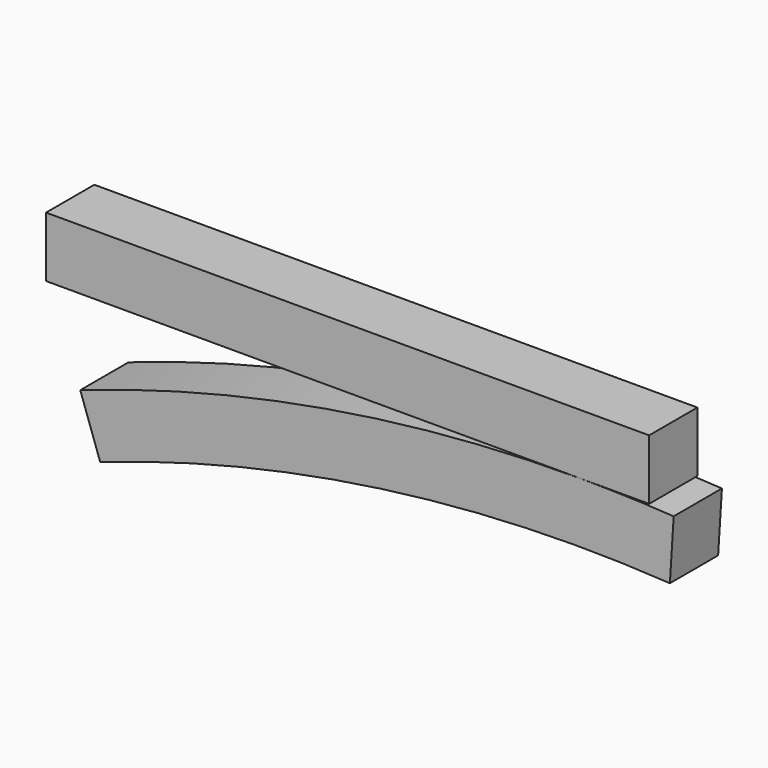
from build123d import *

# Parameters (mm, degrees)
F1_DEPTH = 10
F2_DEPTH = 10


with BuildPart() as f1:
    # F0 (on Front) → F1 (new body)
    with BuildSketch(Plane.XZ):
        Polygon((0, 10), (0, 0), (88.371269, 0), (100, 0), (100, 10), align=None)
    extrude(amount=F1_DEPTH)


with BuildPart() as f2:
    # F0 (on Front) → F2 (new body)
    with BuildSketch(Plane.XZ):
        Polygon((0, 10), (0, 0), (88.371269, 0), (100, 0), (100, 10), align=None)
        with BuildLine():
            ThreePointArc((104.069494, -0.493355), (96.224257, -0.123369), (88.371269, 0))
            ThreePointArc((88.371269, 0), (46.424897, -3.544118), (5.667828, -14.075985))
            Line((5.667828, -14.075985), (8.975966, -23.512946))
            ThreePointArc((8.975966, -23.512946), (55.554617, -12.254196), (103.441565, -10.473621))
            Line((103.441565, -10.473621), (104.069494, -0.493355))
        make_face()
    extrude(amount=F2_DEPTH)


solid = Compound([f1.part, f2.part])
